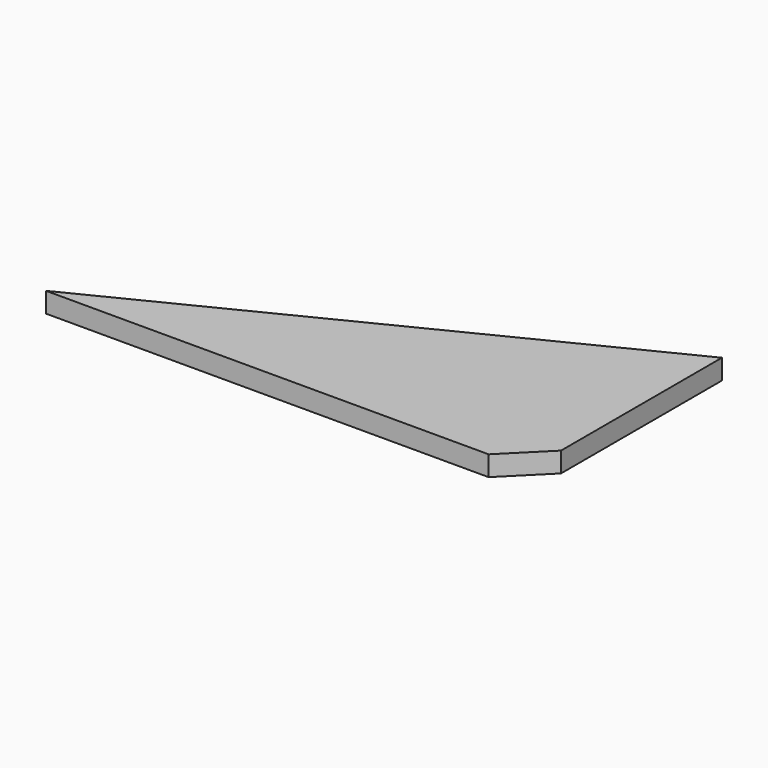
from build123d import *

# Parameters (mm, degrees)
F1_DEPTH = 3.175
F2_SIZE  = 6.35


with BuildPart() as f1:
    # F0 (on Top) → F1 (new body)
    with BuildSketch(Plane.XY):
        Polygon((76.2, 0), (0, -38.1), (76.2, -38.1), align=None)
    extrude(amount=F1_DEPTH)

    # F2
    f2_edges = [f1.edges().sort_by_distance(p)[0] for p in [
        (76.2, -38.1, 1.5875),
    ]]
    chamfer(f2_edges, length=F2_SIZE)


solid = f1.part
